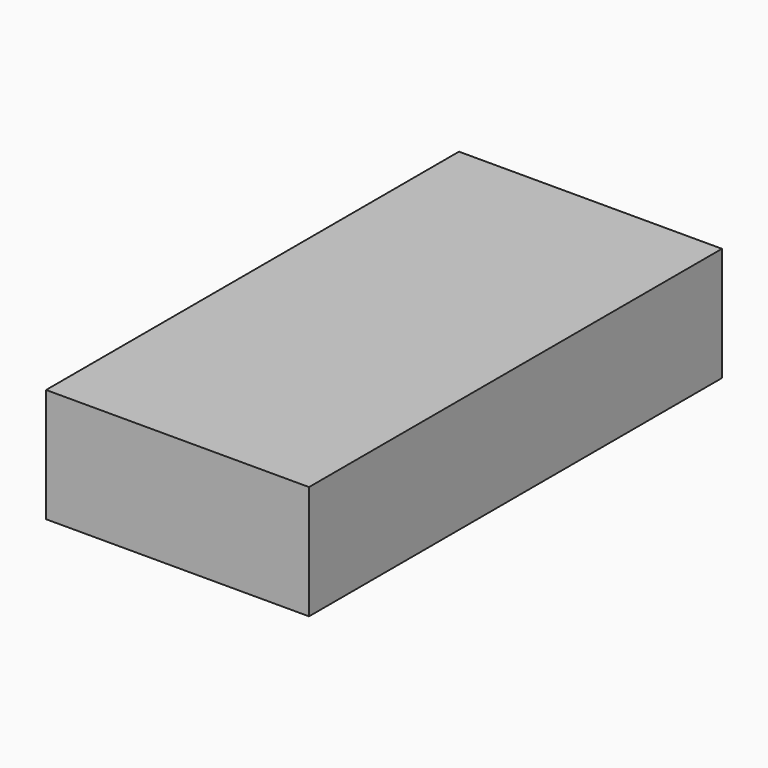
from build123d import *

# Parameters (mm, degrees)
F0_W     = 13.4
F0_H     = 26.3
F1_DEPTH = 5.8
F0_W_2   = 3.2
F0_H_2   = 23.3
F2_DEPTH = 2
F0_W_3   = 7.2
F3_DEPTH = 4.7


with BuildPart() as f1:
    # F0 (on Top) → F1 (new body)
    with BuildSketch(Plane.XY):
        with Locations((-14.642743, -19.200002)):
            Rectangle(F0_W, F0_H)
        Polygon((-19.842743, -30.850002), (-19.842743, -7.550002), (-16.642743, -7.550002), (-9.442743, -7.550002), (-9.442743, -30.850002), (-16.642743, -30.850002), align=None, mode=Mode.SUBTRACT)
    extrude(amount=-F1_DEPTH)

    # F0 (on Top) → F2 (join)
    with BuildSketch(Plane.XY):
        with Locations((-18.242743, -19.200002)):
            Rectangle(F0_W_2, F0_H_2)
    extrude(amount=-F2_DEPTH)

    # F0 (on Top) → F3 (join)
    with BuildSketch(Plane.XY):
        with Locations((-13.042743, -19.200002)):
            Rectangle(F0_W_3, F0_H_2)
    extrude(amount=-F3_DEPTH)


solid = f1.part
